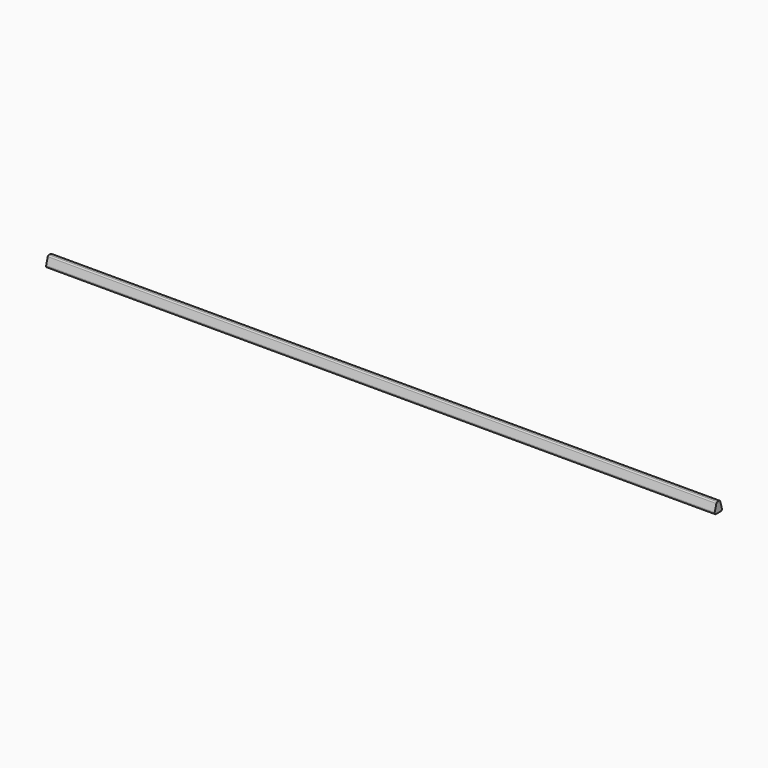
from build123d import *

# Parameters (mm, degrees)
F1_DEPTH = 1050


with BuildPart() as f1:
    # F0 (on Right) → F1 (new body, symmetric)
    with BuildSketch(Plane.YZ):
        with BuildLine():
            ThreePointArc((-14.089709, 6.35), (-13.294147, 1.984116), (-9.32462, 0))
            Line((-9.32462, 0), (9.32462, 0))
            ThreePointArc((9.32462, 0), (13.294147, 1.984116), (14.089709, 6.35))
            Line((14.089709, 6.35), (7.62, 28.575))
            ThreePointArc((7.62, 28.575), (6.03388, 30.867979), (3.388967, 31.75))
            Line((3.388967, 31.75), (-3.388967, 31.75))
            ThreePointArc((-3.388967, 31.75), (-6.03388, 30.867979), (-7.62, 28.575))
            Line((-7.62, 28.575), (-14.089709, 6.35))
        make_face()
    extrude(amount=F1_DEPTH, both=True)


solid = f1.part
